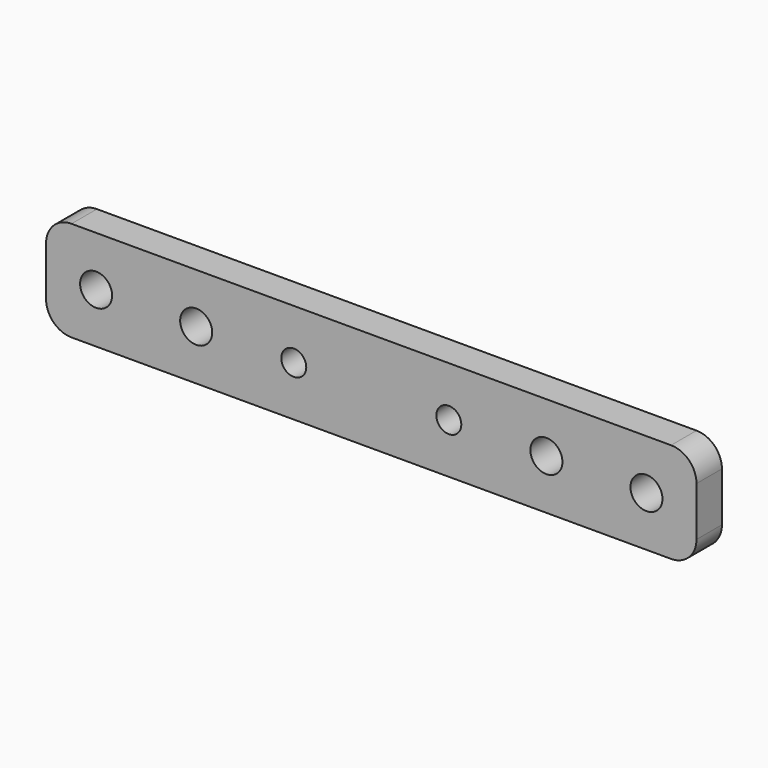
from build123d import *

# Parameters (mm, degrees)
F0_R     = 1.6
F0_R_2   = 1.25
F1_DEPTH = 3.175


with BuildPart() as f1:
    # F0 (on Front) → F1 (new body)
    with BuildSketch(Plane.XZ):
        with BuildLine():
            Line((62.46, 0), (2.54, 0))
            ThreePointArc((2.54, 0), (0.743949, -0.743949), (0, -2.54))
            Line((0, -2.54), (0, -7.46))
            ThreePointArc((0, -7.46), (0.743949, -9.256051), (2.54, -10))
            Line((2.54, -10), (62.46, -10))
            ThreePointArc((62.46, -10), (64.256051, -9.256051), (65, -7.46))
            Line((65, -7.46), (65, -2.54))
            ThreePointArc((65, -2.54), (64.256051, -0.743949), (62.46, 0))
        make_face()
        with Locations((5, -5)):
            Circle(F0_R, mode=Mode.SUBTRACT)
        with Locations((15, -5)):
            Circle(F0_R, mode=Mode.SUBTRACT)
        with Locations((24.7523, -5)):
            Circle(F0_R_2, mode=Mode.SUBTRACT)
        with Locations((40.2463, -5)):
            Circle(F0_R_2, mode=Mode.SUBTRACT)
        with Locations((50, -5)):
            Circle(F0_R, mode=Mode.SUBTRACT)
        with Locations((60, -5)):
            Circle(F0_R, mode=Mode.SUBTRACT)
    extrude(amount=F1_DEPTH)


solid = f1.part
